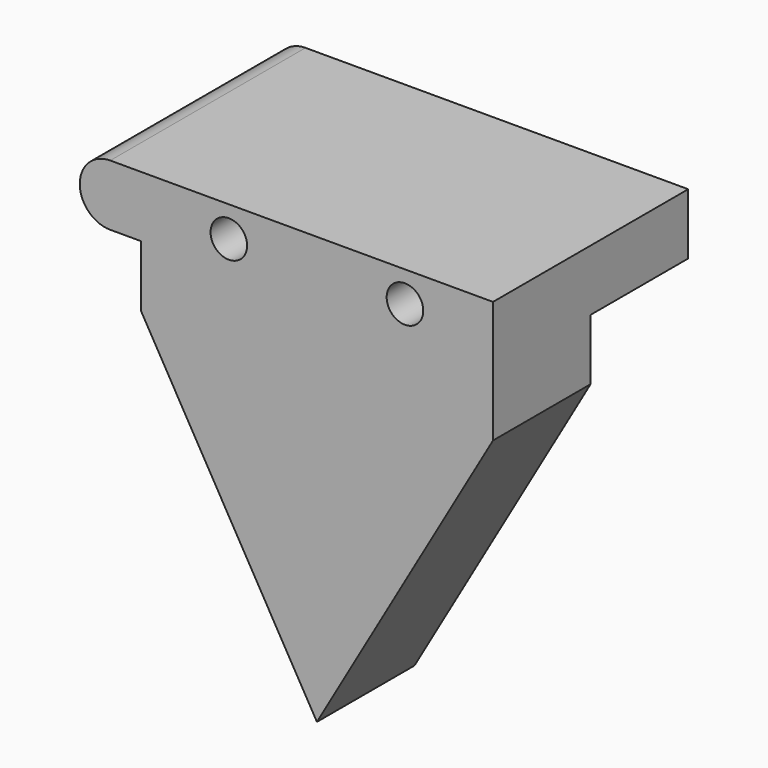
from build123d import *

# Parameters (mm, degrees)
F0_R     = 1.905
F1_DEPTH = 12.7
F2_DEPTH = 12.7
F3_DEPTH = 12.7


with BuildPart() as f1:
    # F0 (on Front) → F1 (new body)
    with BuildSketch(Plane.XZ):
        Polygon((-3.6898989651, -8.8297099552), (32.9718431285, -8.8297099552), (32.9718431285, -2.4797099552), (-3.6898989651, -2.4797099552), (-3.6898989651, -5.6547099552), align=None)
        with Locations((5.4755365583, -5.6547099552)):
            Circle(F0_R, mode=Mode.SUBTRACT)
        with Locations((23.8064076051, -5.6547099552)):
            Circle(F0_R, mode=Mode.SUBTRACT)
        Polygon((14.6409720817, -46.9297099552), (32.9718431285, -15.1797099552), (32.9718431285, -8.8297099552), (-3.6898989651, -8.8297099552), (-3.6898989651, -15.1797099552), align=None)
        with BuildLine():
            ThreePointArc((-6.8648989651, -8.8297099552), (-4.6198349348, -7.8997739855), (-3.6898989651, -5.6547099552))
            ThreePointArc((-3.6898989651, -5.6547099552), (-4.6198349348, -3.409645925), (-6.8648989651, -2.4797099552))
            ThreePointArc((-6.8648989651, -2.4797099552), (-10.0398989651, -5.6547099552), (-6.8648989651, -8.8297099552))
        make_face()
        with Locations((-6.8648989651, -5.6547099552)):
            Circle(F0_R, mode=Mode.SUBTRACT)
        with BuildLine():
            Line((-3.6898989651, -5.6547099552), (-3.6898989651, -2.4797099552))
            Line((-3.6898989651, -2.4797099552), (-6.8648989651, -2.4797099552))
            ThreePointArc((-6.8648989651, -2.4797099552), (-4.6198349348, -3.409645925), (-3.6898989651, -5.6547099552))
        make_face()
        with BuildLine():
            Line((-6.8648989651, -8.8297099552), (-3.6898989651, -8.8297099552))
            Line((-3.6898989651, -8.8297099552), (-3.6898989651, -5.6547099552))
            ThreePointArc((-3.6898989651, -5.6547099552), (-4.6198349348, -7.8997739855), (-6.8648989651, -8.8297099552))
        make_face()
        with Locations((-6.8648989651, -5.6547099552)):
            Circle(F0_R)
    extrude(amount=F1_DEPTH)

    # F0 (on Front) → F2 (join)
    with BuildSketch(Plane.XZ):
        Polygon((-3.6898989651, -8.8297099552), (32.9718431285, -8.8297099552), (32.9718431285, -2.4797099552), (-3.6898989651, -2.4797099552), (-3.6898989651, -5.6547099552), align=None)
        with Locations((5.4755365583, -5.6547099552)):
            Circle(F0_R, mode=Mode.SUBTRACT)
        with Locations((23.8064076051, -5.6547099552)):
            Circle(F0_R, mode=Mode.SUBTRACT)
        with BuildLine():
            ThreePointArc((-6.8648989651, -8.8297099552), (-4.6198349348, -7.8997739855), (-3.6898989651, -5.6547099552))
            ThreePointArc((-3.6898989651, -5.6547099552), (-4.6198349348, -3.409645925), (-6.8648989651, -2.4797099552))
            ThreePointArc((-6.8648989651, -2.4797099552), (-10.0398989651, -5.6547099552), (-6.8648989651, -8.8297099552))
        make_face()
        with Locations((-6.8648989651, -5.6547099552)):
            Circle(F0_R, mode=Mode.SUBTRACT)
        with BuildLine():
            Line((-3.6898989651, -5.6547099552), (-3.6898989651, -2.4797099552))
            Line((-3.6898989651, -2.4797099552), (-6.8648989651, -2.4797099552))
            ThreePointArc((-6.8648989651, -2.4797099552), (-4.6198349348, -3.409645925), (-3.6898989651, -5.6547099552))
        make_face()
        with BuildLine():
            Line((-6.8648989651, -8.8297099552), (-3.6898989651, -8.8297099552))
            Line((-3.6898989651, -8.8297099552), (-3.6898989651, -5.6547099552))
            ThreePointArc((-3.6898989651, -5.6547099552), (-4.6198349348, -7.8997739855), (-6.8648989651, -8.8297099552))
        make_face()
    extrude(amount=-F2_DEPTH)

    # F0 (on Front) → F3 (join)
    with BuildSketch(Plane.XZ):
        with Locations((-6.8648989651, -5.6547099552)):
            Circle(F0_R)
    extrude(amount=-F3_DEPTH)


solid = f1.part
